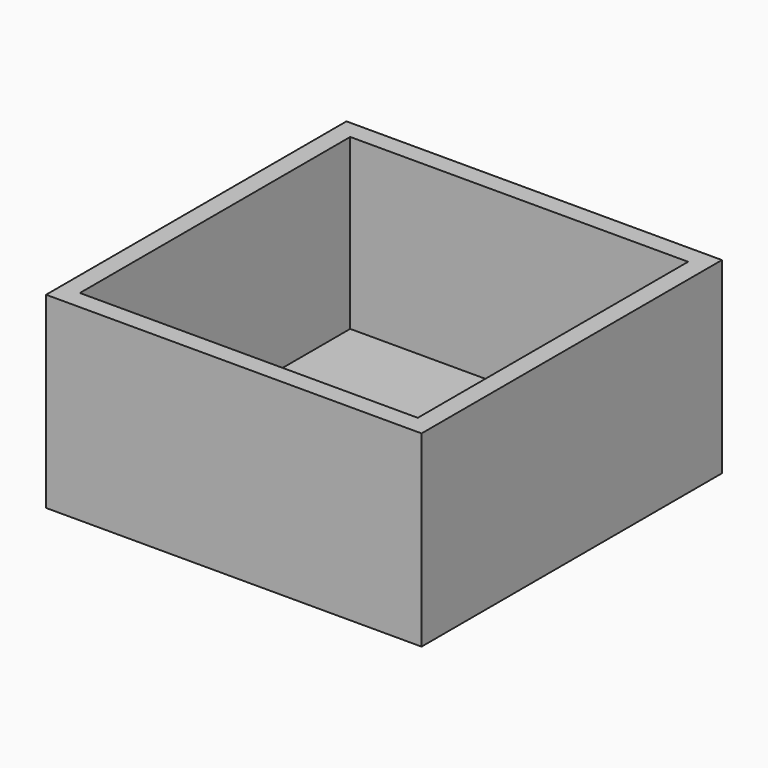
from build123d import *

# Parameters (mm, degrees)
F1_DEPTH = 101.6
F2_W     = 91.44
F2_H     = 91.44
F3_DEPTH = 45.72


with BuildPart() as f1:
    # F0 (on Front) → F1 (new body)
    with BuildSketch(Plane.XZ):
        Polygon((-50.8, 0), (0, 0), (50.8, 0), (50.8, 50.8), (0, 50.8), (-50.8, 50.8), align=None)
    extrude(amount=F1_DEPTH)

    # F2 (on face) → F3 (cut)
    with BuildSketch(Plane.XY.offset(50.8)):
        with Locations((0, -50.8)):
            Rectangle(F2_W, F2_H)
    extrude(amount=-F3_DEPTH, mode=Mode.SUBTRACT)


solid = f1.part
